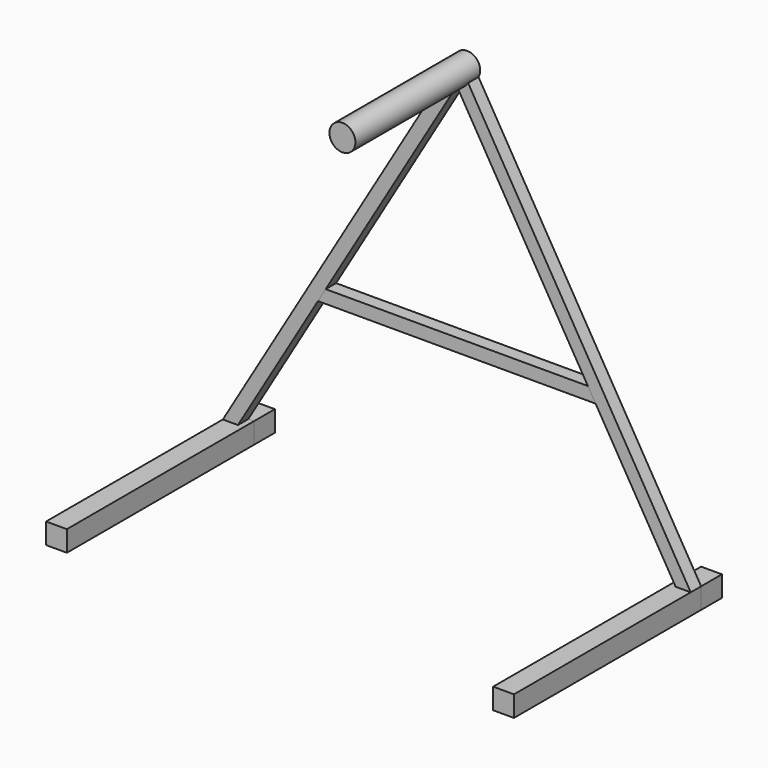
from build123d import *

# Parameters (mm, degrees)
F0_W     = 40
F0_H     = 40
F1_DEPTH = 450
F3_DEPTH = 25
F4_R     = 25
F5_DEPTH = 300
F6_DEPTH = 50
F8_DEPTH = 25


with BuildPart() as f1:
    # F0 (on Front) → F1 (new body)
    with BuildSketch(Plane.XZ):
        with Locations((-430, -122.983089)):
            Rectangle(F0_W, F0_H)
        with Locations((430, -122.983089)):
            Rectangle(F0_W, F0_H)
    extrude(amount=F1_DEPTH)


with BuildPart() as f3:
    # F2 (on face) → F3 (new body)
    with BuildSketch(Plane(origin=(0, 0, 0), x_dir=(-1, 0, 0), z_dir=(0, 1, 0))):
        Polygon((0, 657.016911), (-450, -102.983089), (-430.009371, -118.289622), (0, 607.948427), (437.516174, -130.967778), (450, -102.983089), align=None)
    extrude(amount=-F3_DEPTH)

    # F4 (on face) → F5 (join)
    with BuildSketch(Plane(origin=(0, 0, 0), x_dir=(-1, 0, 0), z_dir=(0, 1, 0))):
        with Locations((0, 632.482669)):
            Circle(F4_R)
    extrude(amount=-F5_DEPTH)


with BuildPart() as f6:
    # F0 (on Front) → F6 (new body)
    with BuildSketch(Plane.XZ):
        with Locations((-430, -122.983089)):
            Rectangle(F0_W, F0_H)
        with Locations((430, -122.983089)):
            Rectangle(F0_W, F0_H)
    extrude(amount=-F6_DEPTH)


with BuildPart() as f8:
    # F7 (on face) → F8 (new body)
    with BuildSketch(Plane(origin=(0, 0, 0), x_dir=(-1, 0, 0), z_dir=(0, 1, 0))):
        Polygon((-252.196293, 182.016911), (-266.998924, 157.016911), (266.998924, 157.016911), (252.196293, 182.016911), align=None)
    extrude(amount=-F8_DEPTH)


solid = Compound([f1.part, f3.part, f6.part, f8.part])
